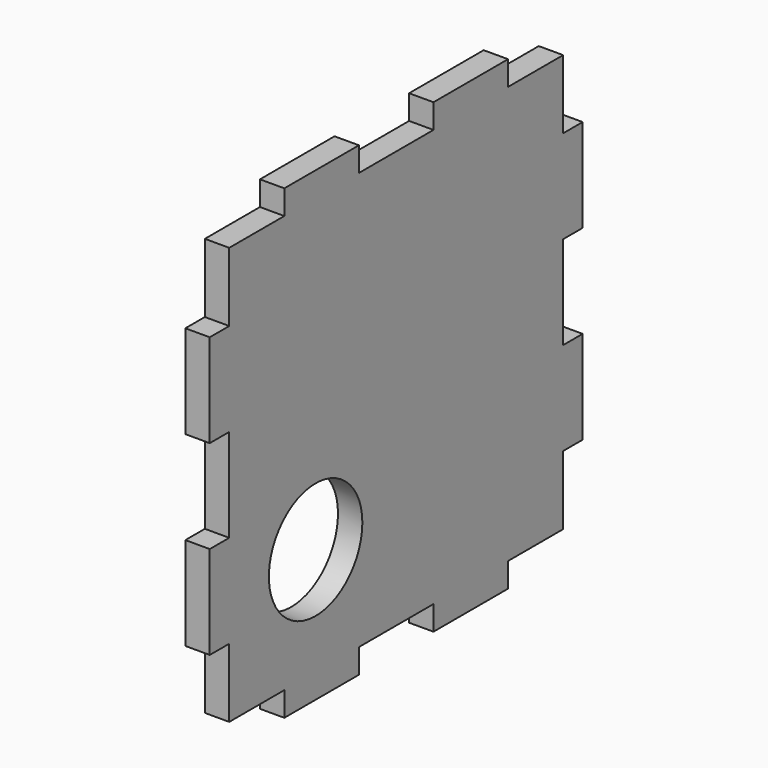
from build123d import *

# Parameters (mm, degrees)
F0_R     = 14
F0_W     = 22.3368
F0_H     = 5.842
F0_W_2   = 5.842
F0_H_2   = 22.337
F0_H_3   = 22.3366
F0_W_3   = 22.337
F0_W_4   = 22.3366
F1_DEPTH = 5.842


with BuildPart() as f1:
    # F0 (on Right) → F1 (new body)
    with BuildSketch(Plane.YZ):
        Polygon((-33.5052, 50), (-50, 50), (-50, 33.5052), (-50, 11.1682), (-50, -11.1686), (-50, -33.5052), (-50, -50), (-33.5052, -50), (-11.1682, -50), (11.1686, -50), (33.5052, -50), (50, -50), (50, -33.5052), (50, -11.1686), (50, 11.1682), (50, 33.5052), (50, 50), (33.5052, 50), (11.1684, 50), (-11.1684, 50), align=None)
        with Locations((-24.133467, -24.178519)):
            Circle(F0_R, mode=Mode.SUBTRACT)
        with Locations((-22.3368, 52.921)):
            Rectangle(F0_W, F0_H)
        with Locations((-52.921, 22.3367)):
            Rectangle(F0_W_2, F0_H_2)
        with Locations((22.3368, 52.921)):
            Rectangle(F0_W, F0_H)
        with Locations((-52.921, -22.3369)):
            Rectangle(F0_W_2, F0_H_3)
        with Locations((52.921, 22.3367)):
            Rectangle(F0_W_2, F0_H_2)
        with Locations((-22.3367, -52.921)):
            Rectangle(F0_W_3, F0_H)
        with Locations((52.921, -22.3369)):
            Rectangle(F0_W_2, F0_H_3)
        with Locations((22.3369, -52.921)):
            Rectangle(F0_W_4, F0_H)
    extrude(amount=F1_DEPTH)


solid = f1.part
